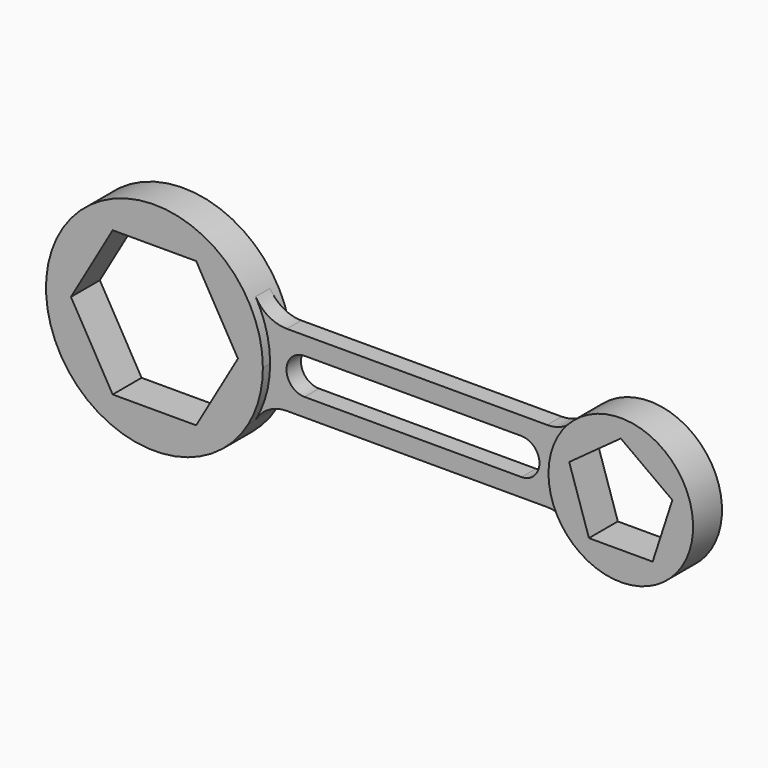
from build123d import *

# Parameters (mm, degrees)
F1_DEPTH = 127
F2_DEPTH = 63.5


with BuildPart() as f1:
    # F0 (on Front) → F1 (new body, symmetric)
    with BuildSketch(Plane.XZ):
        with BuildLine():
            ThreePointArc((761.9999999983, -0.0015987574), (761.9999999996, -0.0007993787), (762, 0))
            ThreePointArc((762, 0), (736.0358947208, 197.21856323), (659.9129614632, 380.997222159))
            ThreePointArc((659.9129614632, 380.997222159), (-761.9999999932, 0.0032075745), (659.9097538887, -381.002777841))
            ThreePointArc((659.9097538887, -381.002777841), (736.034857643, -197.2224336491), (761.9999999983, -0.0015987574))
        make_face()
        Polygon((-586.5878734967, 0), (-293.2939367483, 508), (293.2939367483, 508), (586.5878734967, 0), (293.2939367483, -508), (-293.2939367483, -508), align=None, mode=Mode.SUBTRACT)
    extrude(amount=F1_DEPTH, both=True)


with BuildPart() as f1b:
    # F0 (on Front) → F1, piece 2 (new body, symmetric)
    with BuildSketch(Plane.XZ):
        with BuildLine():
            ThreePointArc((3784.6, -0.0068746569), (3457.8669463157, 474.5521776995), (2897.9610465616, 338.6619059224))
            ThreePointArc((2897.9610465616, 338.6619059224), (2802.0411378026, 181.2605694965), (2768.6000000011, -0.0058088186))
            ThreePointArc((2768.6000000011, -0.0058088186), (2802.0397455008, -181.2706737169), (2897.9572650798, -338.671427411))
            ThreePointArc((2897.9572650798, -338.671427411), (3457.8642968989, -474.5669390004), (3784.6, -0.0068746569))
        make_face()
        Polygon((3638.9525327085, 117.7286002), (3500.5461811234, -308.2423495137), (3052.6538188766, -308.2423495137), (2914.2474672915, 117.7286002), (3276.6, 380.9931253431), align=None, mode=Mode.SUBTRACT)
    extrude(amount=F1_DEPTH, both=True)


with BuildPart() as f2:
    # F0 (on Front) → F2 (new body, symmetric)
    with BuildSketch(Plane.XZ):
        with BuildLine():
            Line((876.9716055234, -0.0018399801), (761.9999999983, -0.0015987574))
            ThreePointArc((761.9999999983, -0.0015987574), (736.034857643, -197.2224336491), (659.9097538887, -381.002777841))
            ThreePointArc((659.9097538887, -381.002777841), (752.8801348259, -288.0329839291), (879.8796718516, -254.003703788))
            Line((879.8796718516, -254.003703788), (1765.2999999997, -254.003703788))
            Line((1765.2999999997, -254.003703788), (1765.2999999997, -127.0021064397))
            Line((1765.2999999997, -127.0021064397), (1003.9716055232, -127.0021064397))
            ThreePointArc((1003.9716055232, -127.0021064397), (914.1689501048, -89.8045734427), (876.9716055234, -0.0018399801))
        make_face()
        with BuildLine():
            ThreePointArc((659.9129614632, 380.997222159), (736.0358947208, 197.21856323), (762, 0))
            ThreePointArc((762, 0), (761.9999999996, -0.0007993787), (761.9999999983, -0.0015987574))
            Line((761.9999999983, -0.0015987574), (876.9716055234, -0.0018399801))
            ThreePointArc((876.9716055234, -0.0018399801), (913.9442189309, 89.5750651129), (1003.3346408523, 126.9962962117))
            Line((1003.3346408523, 126.9962962117), (1765.2999999997, 126.9962962117))
            Line((1765.2999999997, 126.9962962117), (1765.2999999997, 253.996296212))
            Line((1765.2999999997, 253.996296212), (879.8839486176, 253.996296212))
            ThreePointArc((879.8839486176, 253.996296212), (752.8834856449, 288.0261109488), (659.9129614632, 380.997222159))
        make_face()
        with BuildLine():
            Line((2708.6415698423, 253.996296212), (1765.2999999997, 253.996296212))
            Line((1765.2999999997, 253.996296212), (1765.2999999997, 126.9962962117))
            Line((1765.2999999997, 126.9962962117), (1765.3002664593, 126.9962962117))
            Line((1765.3002664593, 126.9962962117), (2527.3657989809, 126.9946973168))
            ThreePointArc((2527.3657989809, 126.9946973168), (2617.1682821472, 89.7970701122), (2654.3655325211, -0.0055691425))
            Line((2654.3655325211, -0.0055691425), (2768.6000000011, -0.0058088186))
            ThreePointArc((2768.6000000011, -0.0058088186), (2802.0411378026, 181.2605694965), (2897.9610465616, 338.6619059224))
            ThreePointArc((2897.9610465616, 338.6619059224), (2812.3359883672, 276.1267907422), (2708.6415698423, 253.996296212))
        make_face()
        with BuildLine():
            Line((1765.2999999997, -127.0021064397), (1765.2999999997, -254.003703788))
            Line((1765.2999999997, -254.003703788), (2708.6358976196, -254.003703788))
            ThreePointArc((2708.6358976196, -254.003703788), (2812.3316106463, -276.1347772371), (2897.9572650798, -338.671427411))
            ThreePointArc((2897.9572650798, -338.671427411), (2802.0397455008, -181.2706737169), (2768.6000000011, -0.0058088186))
            Line((2768.6000000011, -0.0058088186), (2654.3655325211, -0.0055691425))
            ThreePointArc((2654.3655325211, -0.0055691425), (2617.4859952267, -89.4888330211), (2528.266551702, -127.0021064397))
            Line((2528.266551702, -127.0021064397), (1765.2999999997, -127.0021064397))
        make_face()
    extrude(amount=F2_DEPTH, both=True)


solid = Compound([f1.part, f1b.part, f2.part])
